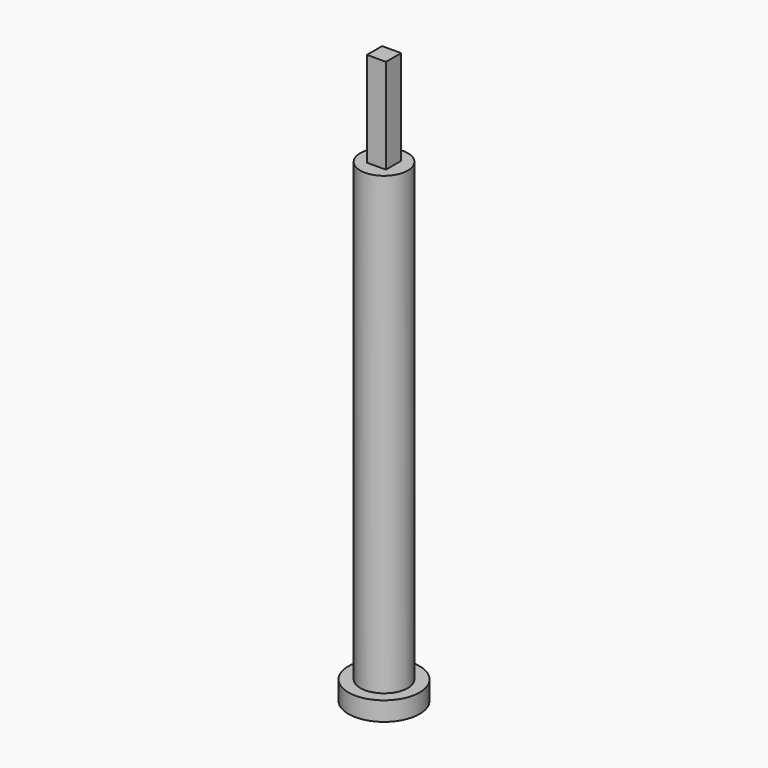
from build123d import *

# Parameters (mm, degrees)
F0_R     = 7.5
F1_DEPTH = 4
F2_R     = 5
F3_DEPTH = 100
F4_W     = 4
F4_H     = 4
F5_DEPTH = 20


with BuildPart() as f1:
    # F0 (on Top) → F1 (new body)
    with BuildSketch(Plane.XY):
        Circle(F0_R)
    extrude(amount=F1_DEPTH)

    # F2 (on Top) → F3 (join)
    with BuildSketch(Plane.XY):
        Circle(F2_R)
    extrude(amount=F3_DEPTH)

    # F4 (on face) → F5 (join)
    with BuildSketch(Plane.XY.offset(100)):
        Rectangle(F4_W, F4_H)
    extrude(amount=F5_DEPTH)


solid = f1.part
